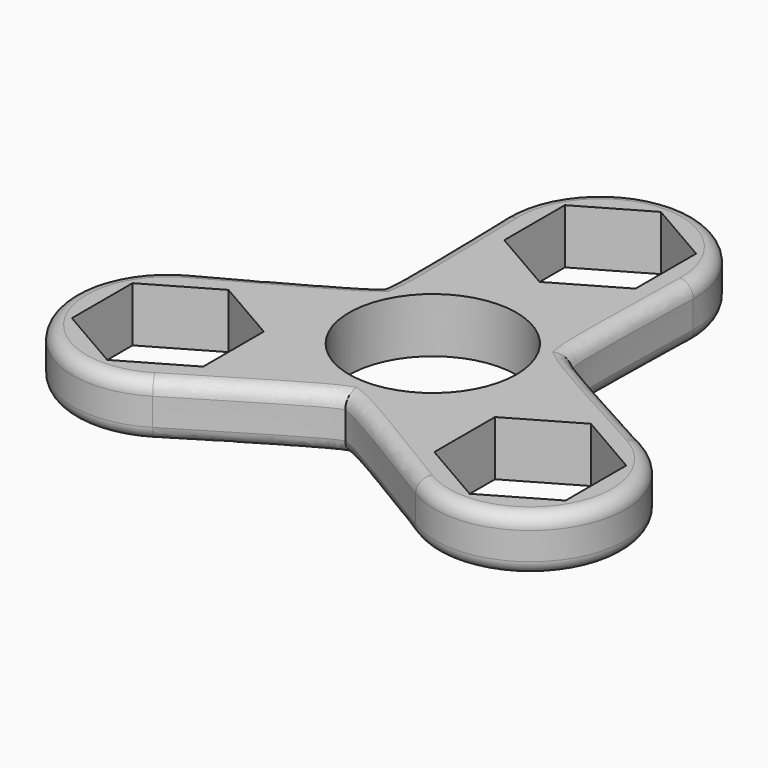
from build123d import *

# Parameters (mm, degrees)
F0_R     = 11
F1_DEPTH = 7.2
F2_R     = 1.8


with BuildPart() as f1:
    # F0 (on Top) → F1 (new body)
    with BuildSketch(Plane.XY):
        with BuildLine():
            add(Edge.make_bspline(
                [(12.4480916841, 7.1869090847), (12.2802531637, 8.3024384462), (12.1953612472, 11.1155200393), (12.2456591484, 17.8667097161), (12.4954897446, 27.164238116)],
                knots=[0.2403327079, 0.2403327079, 0.2403327079, 0.2403327079, 0.4347256167, 1, 1, 1, 1], degree=3))
            ThreePointArc((12.4954897446, 27.164238116), (0, 40), (-12.4954897446, 27.164238116))
            add(Edge.make_bspline(
                [(-12.4480916858, 7.1869090736), (-12.2802531638, 8.3024384413), (-12.1953612472, 11.1155200335), (-12.2456591484, 17.8667097161), (-12.4954897446, 27.164238116)],
                knots=[0.2403327072, 0.2403327072, 0.2403327072, 0.2403327072, 0.4347256167, 1, 1, 1, 1], degree=3))
            add(Edge.make_bspline(
                [(-12.4480916934, 7.1869090774), (-13.3302491939, 6.4837919789), (-15.7240033592, 5.0037326258), (-21.5958540704, 1.6716970506), (-29.7726651552, -2.7607075065)],
                knots=[0.2403327086, 0.2403327086, 0.2403327086, 0.2403327086, 0.4347256167, 1, 1, 1, 1], degree=3))
            ThreePointArc((-29.7726651552, -2.7607075065), (-34.6410161514, -20), (-17.2771754106, -24.4035306095))
            add(Edge.make_bspline(
                [(0, -14.3738181695), (-1.0499960259, -14.7862304277), (-3.5286421067, -16.1192526681), (-9.350194922, -19.5384067667), (-17.2771754106, -24.4035306095)],
                knots=[0.2403327079, 0.2403327079, 0.2403327079, 0.2403327079, 0.4347256167, 1, 1, 1, 1], degree=3))
            add(Edge.make_bspline(
                [(0, -14.3738181695), (1.0499960259, -14.7862304277), (3.5286421067, -16.1192526681), (9.350194922, -19.5384067667), (17.2771754106, -24.4035306095)],
                knots=[0.2403327079, 0.2403327079, 0.2403327079, 0.2403327079, 0.4347256167, 1, 1, 1, 1], degree=3))
            ThreePointArc((17.2771754106, -24.4035306095), (34.6410161514, -20), (29.7726651552, -2.7607075065))
            add(Edge.make_bspline(
                [(12.4480916841, 7.1869090847), (13.3302491896, 6.4837919816), (15.7240033539, 5.0037326288), (21.5958540704, 1.6716970506), (29.7726651552, -2.7607075065)],
                knots=[0.2403327079, 0.2403327079, 0.2403327079, 0.2403327079, 0.4347256167, 1, 1, 1, 1], degree=3))
        make_face()
        Polygon((-32.4406986041, -8.7703539282), (-23.8156986041, -3.7907078565), (-15.1906986041, -8.7703539282), (-15.1906986041, -18.7296460718), (-23.8156986041, -23.7092921435), (-32.4406986041, -18.7296460718), align=None, mode=Mode.SUBTRACT)
        Circle(F0_R, mode=Mode.SUBTRACT)
        Polygon((23.8156986041, -3.7907078565), (32.4406986041, -8.7703539282), (32.4406986041, -18.7296460718), (23.8156986041, -23.7092921435), (15.1906986041, -18.7296460718), (15.1906986041, -8.7703539282), align=None, mode=Mode.SUBTRACT)
        Polygon((0, 17.5407078565), (-8.625, 22.5203539282), (-8.625, 32.4796460718), (0, 37.4592921435), (8.625, 32.4796460718), (8.625, 22.5203539282), align=None, mode=Mode.SUBTRACT)
    extrude(amount=F1_DEPTH)

    # F2
    f2_edges = [f1.edges().sort_by_distance(p)[0] for p in [
        (0, 40, 7.2),
        (34.641016, -20, 7.2),
        (-34.641016, -20, 7.2),
        (0, 40, 0),
        (34.641016, -20, 0),
        (-34.641016, -20, 0),
    ]]
    fillet(f2_edges, radius=F2_R)


solid = f1.part
